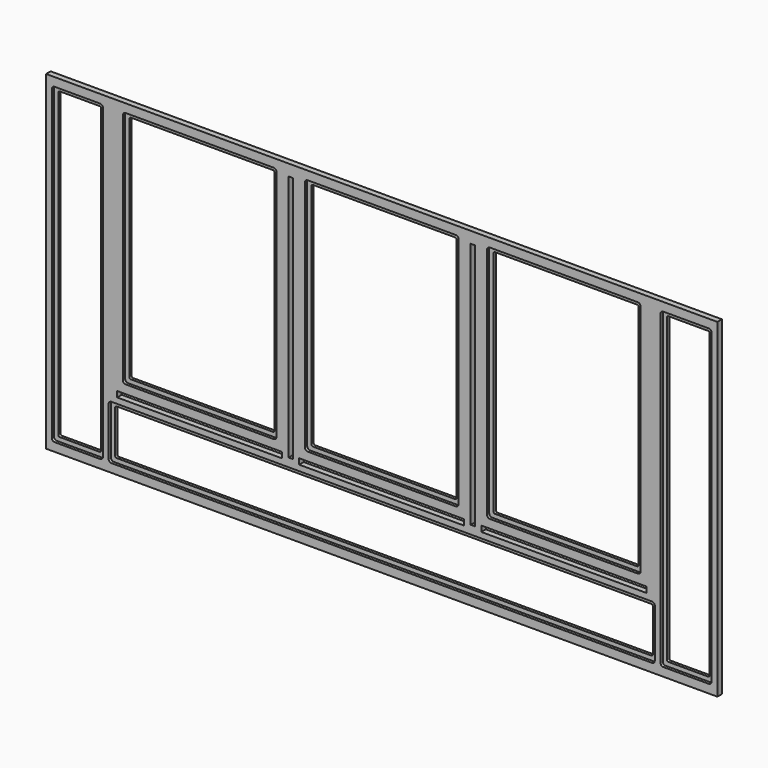
from build123d import *

# Parameters (mm, degrees)
F0_W     = 1498.6
F0_H     = 736.6
F0_W_2   = 368.3
F0_H_2   = 12.7
F0_W_3   = 9.525
F0_H_3   = 552.45
F1_DEPTH = 12.7
F2_DEPTH = 6.35


with BuildPart() as f1:
    # F0 (on Front) → F1 (new body)
    with BuildSketch(Plane.XZ):
        with Locations((0, 381)):
            Rectangle(F0_W, F0_H)
        with Locations((-406.4, 171.45)):
            Rectangle(F0_W_2, F0_H_2, mode=Mode.SUBTRACT)
        with BuildLine():
            Line((-609.6, 38.1), (-609.6, 146.05))
            ThreePointArc((-609.6, 146.05), (-607.740128, 150.540128), (-603.25, 152.4))
            Line((-603.25, 152.4), (603.25, 152.4))
            ThreePointArc((603.25, 152.4), (607.740128, 150.540128), (609.6, 146.05))
            Line((609.6, 146.05), (609.6, 38.1))
            ThreePointArc((609.6, 38.1), (607.740128, 33.609872), (603.25, 31.75))
            Line((603.25, 31.75), (-603.25, 31.75))
            ThreePointArc((-603.25, 31.75), (-607.740128, 33.609872), (-609.6, 38.1))
        make_face(mode=Mode.SUBTRACT)
        with Locations((0, 171.45)):
            Rectangle(F0_W_2, F0_H_2, mode=Mode.SUBTRACT)
        with Locations((406.4, 171.45)):
            Rectangle(F0_W_2, F0_H_2, mode=Mode.SUBTRACT)
        with BuildLine():
            ThreePointArc((-628.65, 730.25), (-624.159872, 728.390128), (-622.3, 723.9))
            Line((-622.3, 723.9), (-622.3, 38.1))
            ThreePointArc((-622.3, 38.1), (-624.159872, 33.609872), (-628.65, 31.75))
            Line((-628.65, 31.75), (-730.25, 31.75))
            ThreePointArc((-730.25, 31.75), (-734.740128, 33.609872), (-736.6, 38.1))
            Line((-736.6, 38.1), (-736.6, 723.9))
            ThreePointArc((-736.6, 723.9), (-734.740128, 728.390128), (-730.25, 730.25))
            Line((-730.25, 730.25), (-628.65, 730.25))
        make_face(mode=Mode.SUBTRACT)
        with BuildLine():
            Line((-577.85, 203.2), (-577.85, 723.9))
            ThreePointArc((-577.85, 723.9), (-575.990128, 728.390128), (-571.5, 730.25))
            Line((-571.5, 730.25), (-241.3, 730.25))
            ThreePointArc((-241.3, 730.25), (-236.809872, 728.390128), (-234.95, 723.9))
            Line((-234.95, 723.9), (-234.95, 203.2))
            ThreePointArc((-234.95, 203.2), (-236.809872, 198.709872), (-241.3, 196.85))
            Line((-241.3, 196.85), (-571.5, 196.85))
            ThreePointArc((-571.5, 196.85), (-575.990128, 198.709872), (-577.85, 203.2))
        make_face(mode=Mode.SUBTRACT)
        with Locations((-203.2, 447.675)):
            Rectangle(F0_W_3, F0_H_3, mode=Mode.SUBTRACT)
        with BuildLine():
            Line((-171.45, 203.2), (-171.45, 723.9))
            ThreePointArc((-171.45, 723.9), (-169.590128, 728.390128), (-165.1, 730.25))
            Line((-165.1, 730.25), (165.1, 730.25))
            ThreePointArc((165.1, 730.25), (169.590128, 728.390128), (171.45, 723.9))
            Line((171.45, 723.9), (171.45, 203.2))
            ThreePointArc((171.45, 203.2), (169.590128, 198.709872), (165.1, 196.85))
            Line((165.1, 196.85), (-165.1, 196.85))
            ThreePointArc((-165.1, 196.85), (-169.590128, 198.709872), (-171.45, 203.2))
        make_face(mode=Mode.SUBTRACT)
        with Locations((203.2, 447.675)):
            Rectangle(F0_W_3, F0_H_3, mode=Mode.SUBTRACT)
        with BuildLine():
            Line((234.95, 203.2), (234.95, 723.9))
            ThreePointArc((234.95, 723.9), (236.809872, 728.390128), (241.3, 730.25))
            Line((241.3, 730.25), (571.5, 730.25))
            ThreePointArc((571.5, 730.25), (575.990128, 728.390128), (577.85, 723.9))
            Line((577.85, 723.9), (577.85, 203.2))
            ThreePointArc((577.85, 203.2), (575.990128, 198.709872), (571.5, 196.85))
            Line((571.5, 196.85), (241.3, 196.85))
            ThreePointArc((241.3, 196.85), (236.809872, 198.709872), (234.95, 203.2))
        make_face(mode=Mode.SUBTRACT)
        with BuildLine():
            Line((622.3, 38.1), (622.3, 723.9))
            ThreePointArc((622.3, 723.9), (624.159872, 728.390128), (628.65, 730.25))
            Line((628.65, 730.25), (730.25, 730.25))
            ThreePointArc((730.25, 730.25), (734.740128, 728.390128), (736.6, 723.9))
            Line((736.6, 723.9), (736.6, 38.1))
            ThreePointArc((736.6, 38.1), (734.740128, 33.609872), (730.25, 31.75))
            Line((730.25, 31.75), (628.65, 31.75))
            ThreePointArc((628.65, 31.75), (624.159872, 33.609872), (622.3, 38.1))
        make_face(mode=Mode.SUBTRACT)
        with BuildLine():
            Line((-622.3, 38.1), (-622.3, 723.9))
            ThreePointArc((-622.3, 723.9), (-624.159872, 728.390128), (-628.65, 730.25))
            Line((-628.65, 730.25), (-730.25, 730.25))
            ThreePointArc((-730.25, 730.25), (-734.740128, 728.390128), (-736.6, 723.9))
            Line((-736.6, 723.9), (-736.6, 38.1))
            ThreePointArc((-736.6, 38.1), (-734.740128, 33.609872), (-730.25, 31.75))
            Line((-730.25, 31.75), (-628.65, 31.75))
            ThreePointArc((-628.65, 31.75), (-624.159872, 33.609872), (-622.3, 38.1))
        make_face()
        with BuildLine():
            ThreePointArc((-635, 720.725), (-632.754936, 719.795064), (-631.825, 717.55))
            Line((-631.825, 717.55), (-631.825, 44.45))
            ThreePointArc((-631.825, 44.45), (-632.754936, 42.204936), (-635, 41.275))
            Line((-635, 41.275), (-723.9, 41.275))
            ThreePointArc((-723.9, 41.275), (-726.145064, 42.204936), (-727.075, 44.45))
            Line((-727.075, 44.45), (-727.075, 717.55))
            ThreePointArc((-727.075, 717.55), (-726.145064, 719.795064), (-723.9, 720.725))
            Line((-723.9, 720.725), (-635, 720.725))
        make_face(mode=Mode.SUBTRACT)
        with BuildLine():
            ThreePointArc((-571.5, 730.25), (-575.990128, 728.390128), (-577.85, 723.9))
            Line((-577.85, 723.9), (-577.85, 203.2))
            ThreePointArc((-577.85, 203.2), (-575.990128, 198.709872), (-571.5, 196.85))
            Line((-571.5, 196.85), (-241.3, 196.85))
            ThreePointArc((-241.3, 196.85), (-236.809872, 198.709872), (-234.95, 203.2))
            Line((-234.95, 203.2), (-234.95, 723.9))
            ThreePointArc((-234.95, 723.9), (-236.809872, 728.390128), (-241.3, 730.25))
            Line((-241.3, 730.25), (-571.5, 730.25))
        make_face()
        with BuildLine():
            Line((-568.325, 209.55), (-568.325, 717.55))
            ThreePointArc((-568.325, 717.55), (-567.395064, 719.795064), (-565.15, 720.725))
            Line((-565.15, 720.725), (-247.65, 720.725))
            ThreePointArc((-247.65, 720.725), (-245.404936, 719.795064), (-244.475, 717.55))
            Line((-244.475, 717.55), (-244.475, 209.55))
            ThreePointArc((-244.475, 209.55), (-245.404936, 207.304936), (-247.65, 206.375))
            Line((-247.65, 206.375), (-565.15, 206.375))
            ThreePointArc((-565.15, 206.375), (-567.395064, 207.304936), (-568.325, 209.55))
        make_face(mode=Mode.SUBTRACT)
        with BuildLine():
            ThreePointArc((-165.1, 730.25), (-169.590128, 728.390128), (-171.45, 723.9))
            Line((-171.45, 723.9), (-171.45, 203.2))
            ThreePointArc((-171.45, 203.2), (-169.590128, 198.709872), (-165.1, 196.85))
            Line((-165.1, 196.85), (165.1, 196.85))
            ThreePointArc((165.1, 196.85), (169.590128, 198.709872), (171.45, 203.2))
            Line((171.45, 203.2), (171.45, 723.9))
            ThreePointArc((171.45, 723.9), (169.590128, 728.390128), (165.1, 730.25))
            Line((165.1, 730.25), (-165.1, 730.25))
        make_face()
        with BuildLine():
            ThreePointArc((-161.925, 717.55), (-160.995064, 719.795064), (-158.75, 720.725))
            Line((-158.75, 720.725), (158.75, 720.725))
            ThreePointArc((158.75, 720.725), (160.995064, 719.795064), (161.925, 717.55))
            Line((161.925, 717.55), (161.925, 209.55))
            ThreePointArc((161.925, 209.55), (160.995064, 207.304936), (158.75, 206.375))
            Line((158.75, 206.375), (-158.75, 206.375))
            ThreePointArc((-158.75, 206.375), (-160.995064, 207.304936), (-161.925, 209.55))
            Line((-161.925, 209.55), (-161.925, 717.55))
        make_face(mode=Mode.SUBTRACT)
        with BuildLine():
            ThreePointArc((241.3, 730.25), (236.809872, 728.390128), (234.95, 723.9))
            Line((234.95, 723.9), (234.95, 203.2))
            ThreePointArc((234.95, 203.2), (236.809872, 198.709872), (241.3, 196.85))
            Line((241.3, 196.85), (571.5, 196.85))
            ThreePointArc((571.5, 196.85), (575.990128, 198.709872), (577.85, 203.2))
            Line((577.85, 203.2), (577.85, 723.9))
            ThreePointArc((577.85, 723.9), (575.990128, 728.390128), (571.5, 730.25))
            Line((571.5, 730.25), (241.3, 730.25))
        make_face()
        with BuildLine():
            Line((244.475, 209.55), (244.475, 717.55))
            ThreePointArc((244.475, 717.55), (245.404936, 719.795064), (247.65, 720.725))
            Line((247.65, 720.725), (565.15, 720.725))
            ThreePointArc((565.15, 720.725), (567.395064, 719.795064), (568.325, 717.55))
            Line((568.325, 717.55), (568.325, 209.55))
            ThreePointArc((568.325, 209.55), (567.395064, 207.304936), (565.15, 206.375))
            Line((565.15, 206.375), (247.65, 206.375))
            ThreePointArc((247.65, 206.375), (245.404936, 207.304936), (244.475, 209.55))
        make_face(mode=Mode.SUBTRACT)
        with BuildLine():
            ThreePointArc((628.65, 730.25), (624.159872, 728.390128), (622.3, 723.9))
            Line((622.3, 723.9), (622.3, 38.1))
            ThreePointArc((622.3, 38.1), (624.159872, 33.609872), (628.65, 31.75))
            Line((628.65, 31.75), (730.25, 31.75))
            ThreePointArc((730.25, 31.75), (734.740128, 33.609872), (736.6, 38.1))
            Line((736.6, 38.1), (736.6, 723.9))
            ThreePointArc((736.6, 723.9), (734.740128, 728.390128), (730.25, 730.25))
            Line((730.25, 730.25), (628.65, 730.25))
        make_face()
        with BuildLine():
            ThreePointArc((635, 41.275), (632.754936, 42.204936), (631.825, 44.45))
            Line((631.825, 44.45), (631.825, 717.55))
            ThreePointArc((631.825, 717.55), (632.754936, 719.795064), (635, 720.725))
            Line((635, 720.725), (723.9, 720.725))
            ThreePointArc((723.9, 720.725), (726.145064, 719.795064), (727.075, 717.55))
            Line((727.075, 717.55), (727.075, 44.45))
            ThreePointArc((727.075, 44.45), (726.145064, 42.204936), (723.9, 41.275))
            Line((723.9, 41.275), (635, 41.275))
        make_face(mode=Mode.SUBTRACT)
        with BuildLine():
            ThreePointArc((-603.25, 152.4), (-607.740128, 150.540128), (-609.6, 146.05))
            Line((-609.6, 146.05), (-609.6, 38.1))
            ThreePointArc((-609.6, 38.1), (-607.740128, 33.609872), (-603.25, 31.75))
            Line((-603.25, 31.75), (603.25, 31.75))
            ThreePointArc((603.25, 31.75), (607.740128, 33.609872), (609.6, 38.1))
            Line((609.6, 38.1), (609.6, 146.05))
            ThreePointArc((609.6, 146.05), (607.740128, 150.540128), (603.25, 152.4))
            Line((603.25, 152.4), (-603.25, 152.4))
        make_face()
        with BuildLine():
            Line((-600.075, 44.45), (-600.075, 139.7))
            ThreePointArc((-600.075, 139.7), (-599.145064, 141.945064), (-596.9, 142.875))
            Line((-596.9, 142.875), (596.9, 142.875))
            ThreePointArc((596.9, 142.875), (599.145064, 141.945064), (600.075, 139.7))
            Line((600.075, 139.7), (600.075, 44.45))
            ThreePointArc((600.075, 44.45), (599.145064, 42.204936), (596.9, 41.275))
            Line((596.9, 41.275), (-596.9, 41.275))
            ThreePointArc((-596.9, 41.275), (-599.145064, 42.204936), (-600.075, 44.45))
        make_face(mode=Mode.SUBTRACT)
    extrude(amount=-F1_DEPTH)

    # F0 (on Front) → F2 (cut)
    with BuildSketch(Plane.XZ):
        with BuildLine():
            Line((-622.3, 38.1), (-622.3, 723.9))
            ThreePointArc((-622.3, 723.9), (-624.159872, 728.390128), (-628.65, 730.25))
            Line((-628.65, 730.25), (-730.25, 730.25))
            ThreePointArc((-730.25, 730.25), (-734.740128, 728.390128), (-736.6, 723.9))
            Line((-736.6, 723.9), (-736.6, 38.1))
            ThreePointArc((-736.6, 38.1), (-734.740128, 33.609872), (-730.25, 31.75))
            Line((-730.25, 31.75), (-628.65, 31.75))
            ThreePointArc((-628.65, 31.75), (-624.159872, 33.609872), (-622.3, 38.1))
        make_face()
        with BuildLine():
            ThreePointArc((-635, 720.725), (-632.754936, 719.795064), (-631.825, 717.55))
            Line((-631.825, 717.55), (-631.825, 44.45))
            ThreePointArc((-631.825, 44.45), (-632.754936, 42.204936), (-635, 41.275))
            Line((-635, 41.275), (-723.9, 41.275))
            ThreePointArc((-723.9, 41.275), (-726.145064, 42.204936), (-727.075, 44.45))
            Line((-727.075, 44.45), (-727.075, 717.55))
            ThreePointArc((-727.075, 717.55), (-726.145064, 719.795064), (-723.9, 720.725))
            Line((-723.9, 720.725), (-635, 720.725))
        make_face(mode=Mode.SUBTRACT)
        with BuildLine():
            ThreePointArc((-571.5, 730.25), (-575.990128, 728.390128), (-577.85, 723.9))
            Line((-577.85, 723.9), (-577.85, 203.2))
            ThreePointArc((-577.85, 203.2), (-575.990128, 198.709872), (-571.5, 196.85))
            Line((-571.5, 196.85), (-241.3, 196.85))
            ThreePointArc((-241.3, 196.85), (-236.809872, 198.709872), (-234.95, 203.2))
            Line((-234.95, 203.2), (-234.95, 723.9))
            ThreePointArc((-234.95, 723.9), (-236.809872, 728.390128), (-241.3, 730.25))
            Line((-241.3, 730.25), (-571.5, 730.25))
        make_face()
        with BuildLine():
            Line((-568.325, 209.55), (-568.325, 717.55))
            ThreePointArc((-568.325, 717.55), (-567.395064, 719.795064), (-565.15, 720.725))
            Line((-565.15, 720.725), (-247.65, 720.725))
            ThreePointArc((-247.65, 720.725), (-245.404936, 719.795064), (-244.475, 717.55))
            Line((-244.475, 717.55), (-244.475, 209.55))
            ThreePointArc((-244.475, 209.55), (-245.404936, 207.304936), (-247.65, 206.375))
            Line((-247.65, 206.375), (-565.15, 206.375))
            ThreePointArc((-565.15, 206.375), (-567.395064, 207.304936), (-568.325, 209.55))
        make_face(mode=Mode.SUBTRACT)
        with BuildLine():
            ThreePointArc((-165.1, 730.25), (-169.590128, 728.390128), (-171.45, 723.9))
            Line((-171.45, 723.9), (-171.45, 203.2))
            ThreePointArc((-171.45, 203.2), (-169.590128, 198.709872), (-165.1, 196.85))
            Line((-165.1, 196.85), (165.1, 196.85))
            ThreePointArc((165.1, 196.85), (169.590128, 198.709872), (171.45, 203.2))
            Line((171.45, 203.2), (171.45, 723.9))
            ThreePointArc((171.45, 723.9), (169.590128, 728.390128), (165.1, 730.25))
            Line((165.1, 730.25), (-165.1, 730.25))
        make_face()
        with BuildLine():
            ThreePointArc((-161.925, 717.55), (-160.995064, 719.795064), (-158.75, 720.725))
            Line((-158.75, 720.725), (158.75, 720.725))
            ThreePointArc((158.75, 720.725), (160.995064, 719.795064), (161.925, 717.55))
            Line((161.925, 717.55), (161.925, 209.55))
            ThreePointArc((161.925, 209.55), (160.995064, 207.304936), (158.75, 206.375))
            Line((158.75, 206.375), (-158.75, 206.375))
            ThreePointArc((-158.75, 206.375), (-160.995064, 207.304936), (-161.925, 209.55))
            Line((-161.925, 209.55), (-161.925, 717.55))
        make_face(mode=Mode.SUBTRACT)
        with BuildLine():
            ThreePointArc((241.3, 730.25), (236.809872, 728.390128), (234.95, 723.9))
            Line((234.95, 723.9), (234.95, 203.2))
            ThreePointArc((234.95, 203.2), (236.809872, 198.709872), (241.3, 196.85))
            Line((241.3, 196.85), (571.5, 196.85))
            ThreePointArc((571.5, 196.85), (575.990128, 198.709872), (577.85, 203.2))
            Line((577.85, 203.2), (577.85, 723.9))
            ThreePointArc((577.85, 723.9), (575.990128, 728.390128), (571.5, 730.25))
            Line((571.5, 730.25), (241.3, 730.25))
        make_face()
        with BuildLine():
            Line((244.475, 209.55), (244.475, 717.55))
            ThreePointArc((244.475, 717.55), (245.404936, 719.795064), (247.65, 720.725))
            Line((247.65, 720.725), (565.15, 720.725))
            ThreePointArc((565.15, 720.725), (567.395064, 719.795064), (568.325, 717.55))
            Line((568.325, 717.55), (568.325, 209.55))
            ThreePointArc((568.325, 209.55), (567.395064, 207.304936), (565.15, 206.375))
            Line((565.15, 206.375), (247.65, 206.375))
            ThreePointArc((247.65, 206.375), (245.404936, 207.304936), (244.475, 209.55))
        make_face(mode=Mode.SUBTRACT)
        with BuildLine():
            ThreePointArc((628.65, 730.25), (624.159872, 728.390128), (622.3, 723.9))
            Line((622.3, 723.9), (622.3, 38.1))
            ThreePointArc((622.3, 38.1), (624.159872, 33.609872), (628.65, 31.75))
            Line((628.65, 31.75), (730.25, 31.75))
            ThreePointArc((730.25, 31.75), (734.740128, 33.609872), (736.6, 38.1))
            Line((736.6, 38.1), (736.6, 723.9))
            ThreePointArc((736.6, 723.9), (734.740128, 728.390128), (730.25, 730.25))
            Line((730.25, 730.25), (628.65, 730.25))
        make_face()
        with BuildLine():
            ThreePointArc((635, 41.275), (632.754936, 42.204936), (631.825, 44.45))
            Line((631.825, 44.45), (631.825, 717.55))
            ThreePointArc((631.825, 717.55), (632.754936, 719.795064), (635, 720.725))
            Line((635, 720.725), (723.9, 720.725))
            ThreePointArc((723.9, 720.725), (726.145064, 719.795064), (727.075, 717.55))
            Line((727.075, 717.55), (727.075, 44.45))
            ThreePointArc((727.075, 44.45), (726.145064, 42.204936), (723.9, 41.275))
            Line((723.9, 41.275), (635, 41.275))
        make_face(mode=Mode.SUBTRACT)
        with BuildLine():
            ThreePointArc((-603.25, 152.4), (-607.740128, 150.540128), (-609.6, 146.05))
            Line((-609.6, 146.05), (-609.6, 38.1))
            ThreePointArc((-609.6, 38.1), (-607.740128, 33.609872), (-603.25, 31.75))
            Line((-603.25, 31.75), (603.25, 31.75))
            ThreePointArc((603.25, 31.75), (607.740128, 33.609872), (609.6, 38.1))
            Line((609.6, 38.1), (609.6, 146.05))
            ThreePointArc((609.6, 146.05), (607.740128, 150.540128), (603.25, 152.4))
            Line((603.25, 152.4), (-603.25, 152.4))
        make_face()
        with BuildLine():
            Line((-600.075, 44.45), (-600.075, 139.7))
            ThreePointArc((-600.075, 139.7), (-599.145064, 141.945064), (-596.9, 142.875))
            Line((-596.9, 142.875), (596.9, 142.875))
            ThreePointArc((596.9, 142.875), (599.145064, 141.945064), (600.075, 139.7))
            Line((600.075, 139.7), (600.075, 44.45))
            ThreePointArc((600.075, 44.45), (599.145064, 42.204936), (596.9, 41.275))
            Line((596.9, 41.275), (-596.9, 41.275))
            ThreePointArc((-596.9, 41.275), (-599.145064, 42.204936), (-600.075, 44.45))
        make_face(mode=Mode.SUBTRACT)
    extrude(amount=-F2_DEPTH, mode=Mode.SUBTRACT)


solid = f1.part
